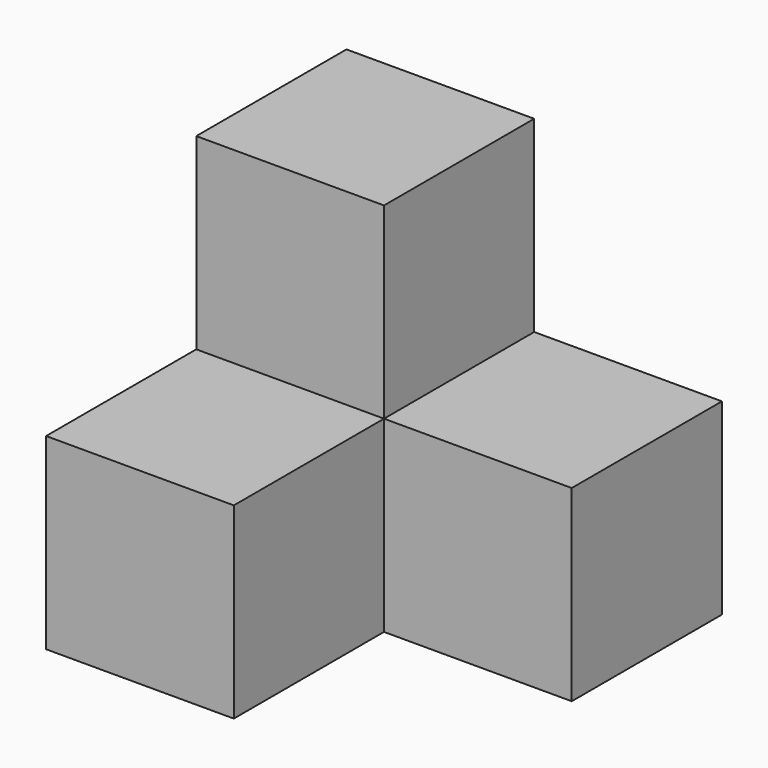
from build123d import *

# Parameters (mm, degrees)
F0_W     = 25.4
F0_H     = 25.4
F1_DEPTH = 50.8
F2_DEPTH = 25.4


with BuildPart() as f1:
    # F0 (on Front) → F1 (new body)
    with BuildSketch(Plane.XZ):
        with Locations((-12.7, 12.7)):
            Rectangle(F0_W, F0_H)
    extrude(amount=F1_DEPTH)


with BuildPart() as f2:
    # F0 (on Front) → F2 (new body)
    with BuildSketch(Plane.XZ):
        with Locations((12.7, 12.7)):
            Rectangle(F0_W, F0_H)
        with Locations((-12.7, 12.7)):
            Rectangle(F0_W, F0_H)
        with Locations((-12.7, 38.1)):
            Rectangle(F0_W, F0_H)
    extrude(amount=F2_DEPTH)


solid = Compound([f1.part, f2.part])
